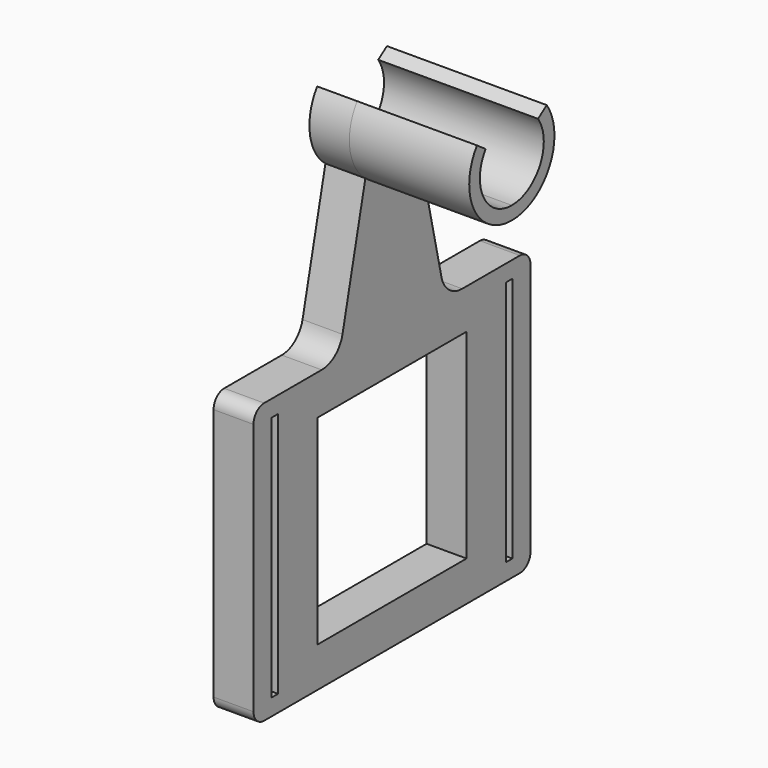
from build123d import *

# Parameters (mm, degrees)
SKETCH001_W       = 0.6
SKETCH001_H       = 18.5
PAD001_DEPTH      = 3
PAD002_DEPTH      = 9
PAD002_DEPTH_BACK = 3
FILLET_R          = 1
FILLET001_R       = 2


with BuildPart() as part:
    # Sketch001 → Pad001 (new body)
    with BuildSketch(Plane.YZ):
        Polygon((-13, 10.5), (-13, -10.5), (0, -10.5), (0, -7.5), (-7, -7.5), (-7, 7.5), (0, 7.5), (0, 21.5), (-2.5, 21.5), (-5, 10.5), align=None)
        with Locations((-11, 0)):
            Rectangle(SKETCH001_W, SKETCH001_H, mode=Mode.SUBTRACT)
    extrude(amount=PAD001_DEPTH)

    # Sketch002 (on Face16 of Pad001) → Pad002 (join, two sides)
    with BuildSketch(Plane.YZ.offset(3)) as pad002_sk:
        with BuildLine():
            ThreePointArc((-2.457456, 26.343228), (-2.661032, 23.237253), (0, 21.622499))
            Line((0, 21.622499), (0, 20.622499))
            ThreePointArc((-3.276608, 26.916805), (-3.548043, 22.775505), (0, 20.622499))
            Line((-2.457456, 26.343228), (-3.276608, 26.916805))
        make_face()
    extrude(amount=PAD002_DEPTH)
    extrude(pad002_sk.sketch, amount=-PAD002_DEPTH_BACK)

    # Mirrored: part across XZ


with BuildPart() as part_1:
    add(part.part)
    add(part.part.mirror(Plane.XZ))

    # Fillet
    fillet_edges = [part_1.edges().sort_by_distance(p)[0] for p in [
        (1.5, 13, 10.5),
        (1.5, 13, -10.5),
        (1.5, -13, -10.5),
        (1.5, -13, 10.5),
    ]]
    fillet(fillet_edges, radius=FILLET_R)

    # Fillet001
    fillet001_edges = [part_1.edges().sort_by_distance(p)[0] for p in [
        (1.5, -5, 10.5),
        (1.5, 5, 10.5),
    ]]
    fillet(fillet001_edges, radius=FILLET001_R)


solid = part_1.part
